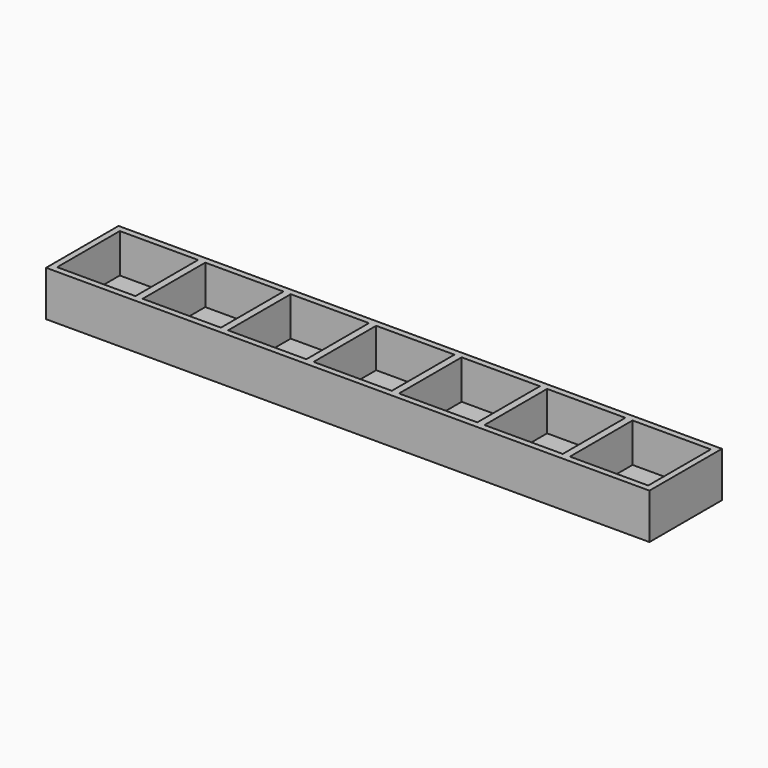
from build123d import *

# Parameters (mm, degrees)
SKETCH_W            = 195.8
SKETCH_H            = 29.4
PAD_DEPTH           = 14.7
SKETCH001_W         = 25.4
SKETCH001_H         = 25.4
POCKET_DEPTH        = 12.7
LINEARPATTERN_COUNT = 7
LINEARPATTERN_PITCH = 27.733333


with BuildPart() as part:
    # Sketch → Pad (new body)
    with BuildSketch(Plane.XY):
        with Locations((97.9, 14.7)):
            Rectangle(SKETCH_W, SKETCH_H)
    extrude(amount=PAD_DEPTH)

    # Sketch001 → Pocket (cut)
    with BuildSketch(Plane.XY.offset(14.7)):
        with Locations((14.7, 14.7)):
            Rectangle(SKETCH001_W, SKETCH001_H)
    pocket = extrude(amount=-POCKET_DEPTH, mode=Mode.SUBTRACT)

    # LinearPattern: Pocket ×7
    with Locations(*[(i * LINEARPATTERN_PITCH, 0, 0) for i in range(1, LINEARPATTERN_COUNT)]):
        add(pocket, mode=Mode.SUBTRACT)


solid = part.part
